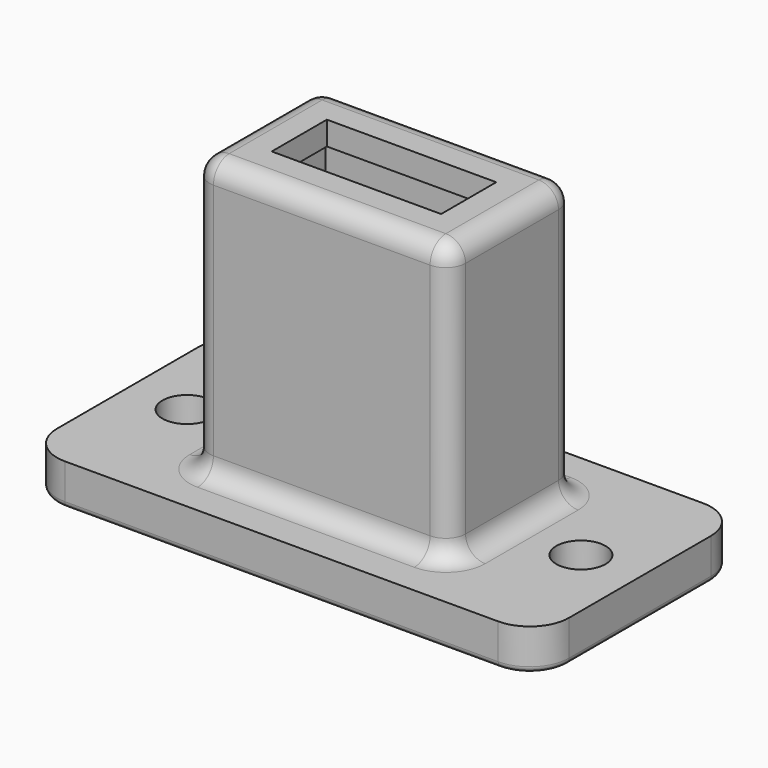
from build123d import *

# Parameters (mm, degrees)
F0_R     = 1.25
F1_DEPTH = 2.1
F2_W     = 9.4
F2_H     = 4.3
F3_DEPTH = 15
F4_W     = 13
F4_H     = 7.9
F5_DEPTH = 12.9
F6_W     = 13
F6_H     = 7.9
F7_DEPTH = 1.2
F8_W     = 8.6
F8_H     = 3.5
F9_DEPTH = 25
F13_R    = 1
F14_R    = 0.3


with BuildPart() as f1:
    # F0 (on Top) → F1 (new body)
    with BuildSketch(Plane.XY):
        with BuildLine():
            Line((8.560975, 13), (-13.439025, 13))
            ThreePointArc((-13.439025, 13), (-14.853238, 12.414214), (-15.439025, 11))
            Line((-15.439025, 11), (-15.439025, 2))
            ThreePointArc((-15.439025, 2), (-14.853238, 0.585786), (-13.439025, 0))
            Line((-13.439025, 0), (8.560975, 0))
            ThreePointArc((8.560975, 0), (9.975189, 0.585786), (10.560975, 2))
            Line((10.560975, 2), (10.560975, 11))
            ThreePointArc((10.560975, 11), (9.975189, 12.414214), (8.560975, 13))
        make_face()
        with Locations((-12.439025, 6.5)):
            Circle(F0_R, mode=Mode.SUBTRACT)
        with Locations((7.560975, 6.5)):
            Circle(F0_R, mode=Mode.SUBTRACT)
    extrude(amount=F1_DEPTH)


with BuildPart() as f3:
    # F2 (on face) → F3 (new body)
    with BuildSketch(Plane(origin=(0, 0, 0), x_dir=(1, 0, 0), z_dir=(0, 0, -1))):
        with Locations((-2.439025, -6.5)):
            Rectangle(F2_W, F2_H)
    extrude(amount=-F3_DEPTH)


with BuildPart() as f5:
    # F4 (on face) → F5 (new body, through all)
    with BuildSketch(Plane.XY.offset(2.1)):
        with Locations((-2.439025, 6.5)):
            Rectangle(F4_W, F4_H)
    extrude(amount=F5_DEPTH)

    # F11: cut F3
    add(f3.part, mode=Mode.SUBTRACT)


with BuildPart() as f7:
    # F6 (on face) → F7 (new body)
    with BuildSketch(Plane.XY.offset(15)):
        with Locations((-2.439025, 6.5)):
            Rectangle(F6_W, F6_H)
    extrude(amount=F7_DEPTH)


with BuildPart() as f9:
    # F8 (on face) → F9 (new body)
    with BuildSketch(Plane.XY.offset(15)):
        with Locations((-2.439025, 6.5)):
            Rectangle(F8_W, F8_H)
    extrude(amount=F9_DEPTH)


with BuildPart() as f7_1:
    add(f7.part)

    # F10: cut F9
    add(f9.part, mode=Mode.SUBTRACT)


with BuildPart() as f1_1:
    add(f1.part)

    # F11: cut F3
    add(f3.part, mode=Mode.SUBTRACT)


with BuildPart() as f7_2:
    add(f7_1.part)

    # F12: union F5, F1
    add(f5.part)
    add(f1_1.part)

    # F13
    f13_edges = [f7_2.edges().sort_by_distance(p)[0] for p in [
        (-2.439025, 10.45, 2.1),
        (4.060975, 6.5, 2.1),
        (-8.939025, 6.5, 2.1),
        (-2.439025, 2.55, 2.1),
        (-8.939025, 10.45, 9.15),
        (-8.939025, 2.55, 9.15),
        (4.060975, 10.45, 9.15),
        (4.060975, 2.55, 9.15),
        (-8.939025, 6.5, 16.2),
        (-2.439025, 10.45, 16.2),
        (-2.439025, 2.55, 16.2),
        (4.060975, 6.5, 16.2),
    ]]
    fillet(f13_edges, radius=F13_R)

    # F14
    f14_edges = [f7_2.edges().sort_by_distance(p)[0] for p in [
        (2.260975, 6.5, 0),
        (-2.439025, 8.65, 0),
        (-7.139025, 6.5, 0),
        (-2.439025, 4.35, 0),
        (-2.439025, 13, 0),
    ]]
    fillet(f14_edges, radius=F14_R)


solid = f7_2.part
